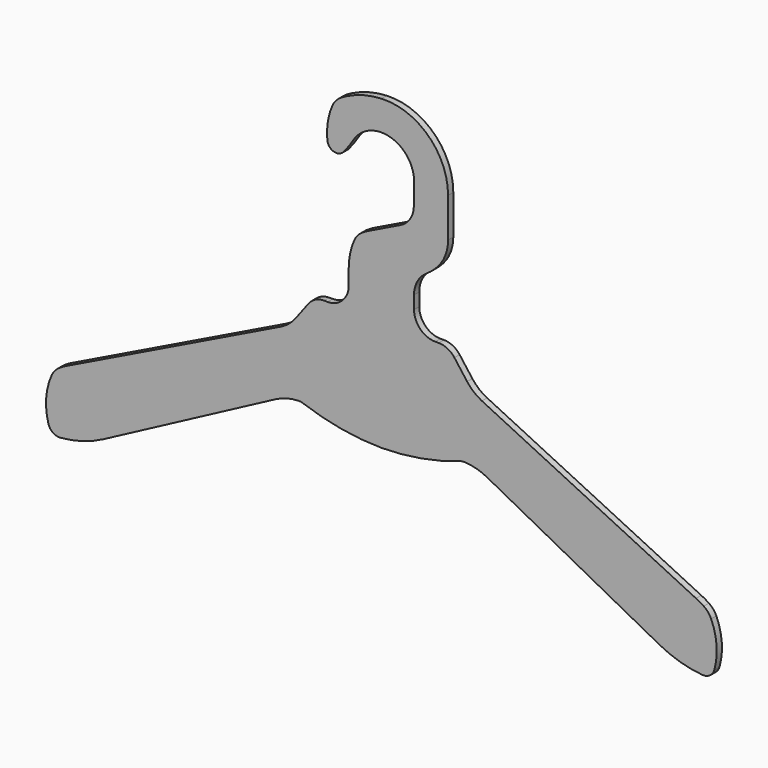
from build123d import *

# Parameters (mm, degrees)
F3_DEPTH = 4
F4_DEPTH = 4


with BuildPart() as f3:
    # F1 (on Front) → F3 (new body)
    with BuildSketch(Plane.XZ):
        with BuildLine():
            Line((-44.725054, 105.2), (-52.498164, 94.835853))
            ThreePointArc((-52.498164, 94.835853), (-56.583657, 90.555592), (-61.560664, 87.355393))
            Line((-61.560664, 87.355393), (-192.6875, 23.557777))
            ThreePointArc((-192.6875, 23.557777), (-195.084903, 22.290786), (-197.392505, 20.866785))
            ThreePointArc((-197.392505, 20.866785), (-200.042611, 18.509777), (-201.934068, 15.50962))
            ThreePointArc((-201.934068, 15.50962), (-205.285397, 2.221076), (-203.882736, -11.411582))
            ThreePointArc((-203.882736, -11.411582), (-201.142788, -15.23423), (-196.597382, -16.442223))
            ThreePointArc((-196.597382, -16.442223), (-183.045193, -13.900552), (-170.274075, -8.702432))
            Line((-170.274075, -8.702432), (-64.872076, 47.128487))
            ThreePointArc((-64.872076, 47.128487), (-58.08245, 49.805832), (-50.868805, 50.915129))
            ThreePointArc((-50.868805, 50.915129), (-49.431216, 50.836816), (-48.034631, 50.487038))
            ThreePointArc((-48.034631, 50.487038), (-24.370411, 44.252825), (0, 42.029373))
            ThreePointArc((0, 42.029373), (24.370411, 44.252825), (48.034631, 50.487038))
            ThreePointArc((48.034631, 50.487038), (49.431216, 50.836816), (50.868805, 50.915129))
            ThreePointArc((50.868805, 50.915129), (58.08245, 49.805832), (64.872076, 47.128487))
            Line((64.872076, 47.128487), (170.274075, -8.702432))
            ThreePointArc((170.274075, -8.702432), (183.045193, -13.900552), (196.597382, -16.442223))
            ThreePointArc((196.597382, -16.442223), (201.142788, -15.23423), (203.882736, -11.411582))
            ThreePointArc((203.882736, -11.411582), (205.285397, 2.221076), (201.934068, 15.50962))
            ThreePointArc((201.934068, 15.50962), (200.042611, 18.509777), (197.392505, 20.866785))
            ThreePointArc((197.392505, 20.866785), (195.084903, 22.290786), (192.6875, 23.557777))
            Line((192.6875, 23.557777), (61.560664, 87.355393))
            ThreePointArc((61.560664, 87.355393), (56.583657, 90.555592), (52.498164, 94.835853))
            Line((52.498164, 94.835853), (44.725054, 105.2))
            ThreePointArc((44.725054, 105.2), (40.491617, 108.733126), (35.125054, 110))
            Line((35.125054, 110), (0, 110))
            Line((0, 110), (-35.125054, 110))
            ThreePointArc((-35.125054, 110), (-40.491617, 108.733126), (-44.725054, 105.2))
        make_face()
    extrude(amount=F3_DEPTH)

    # F2 (on Front) → F4 (join)
    with BuildSketch(Plane.XZ):
        with BuildLine():
            ThreePointArc((33, 110), (23.807612, 113.807612), (20, 123))
            Line((20, 123), (20, 131))
            ThreePointArc((20, 131), (21.982577, 138.891463), (27.459489, 144.908875))
            ThreePointArc((27.459489, 144.908875), (31.203117, 147.749038), (34.561641, 151.035616))
            ThreePointArc((34.561641, 151.035616), (39.21699, 158.62718), (40.840753, 167.383179))
            Line((40.840753, 167.383179), (40.840753, 191.46438))
            ThreePointArc((40.840753, 191.46438), (28.75223, 219.648447), (0, 230.31537))
            ThreePointArc((0, 230.31537), (-10.614416, 228.704114), (-20.691802, 225.001649))
            ThreePointArc((-20.691802, 225.001649), (-23.089205, 223.734658), (-25.396808, 222.310657))
            ThreePointArc((-25.396808, 222.310657), (-28.082385, 219.911622), (-29.982966, 216.85295))
            ThreePointArc((-29.982966, 216.85295), (-32.817521, 207.16869), (-33.099611, 197.082064))
            ThreePointArc((-33.099611, 197.082064), (-29.17364, 192.282166), (-23.222911, 194.026042))
            ThreePointArc((-23.222911, 194.026042), (-20.00524, 198.150829), (-17.110942, 202.508616))
            ThreePointArc((-17.110942, 202.508616), (5.426392, 211.361001), (20.048406, 192.060927))
            Line((20.048406, 192.060927), (19.880676, 178.809665))
            ThreePointArc((19.880676, 178.809665), (17.630944, 171.242723), (11.74383, 165.983274))
            Line((11.74383, 165.983274), (-7.299279, 156.718162))
            ThreePointArc((-7.299279, 156.718162), (-9.696682, 155.45117), (-12.004284, 154.027169))
            ThreePointArc((-12.004284, 154.027169), (-14.654389, 151.670161), (-16.545846, 148.670005))
            ThreePointArc((-16.545846, 148.670005), (-19.126786, 140.786151), (-20, 132.536671))
            Line((-20, 132.536671), (-20, 123))
            ThreePointArc((-20, 123), (-23.807612, 113.807612), (-33, 110))
            Line((-33, 110), (33, 110))
        make_face()
    extrude(amount=F4_DEPTH)


solid = f3.part
